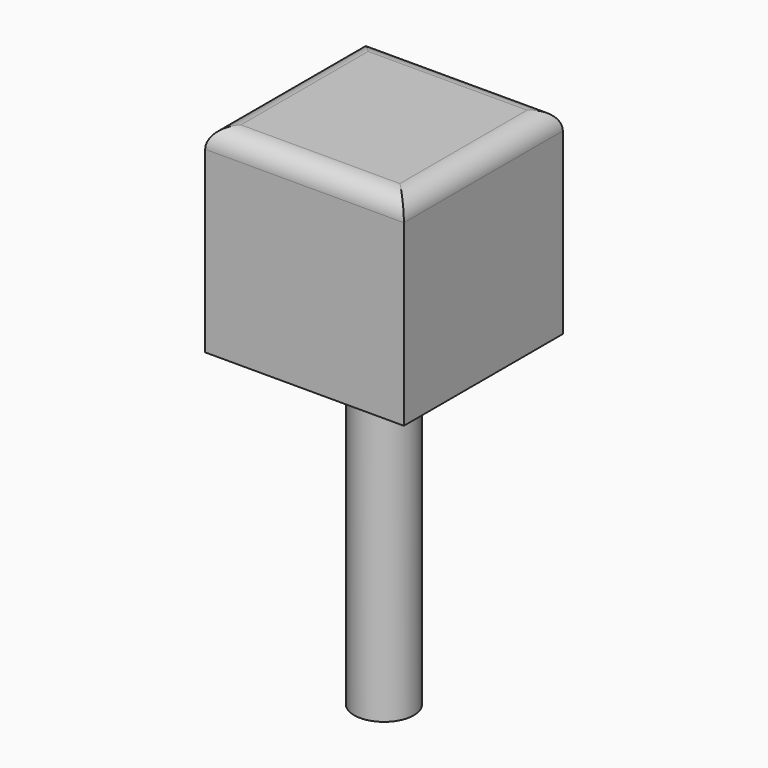
from build123d import *

# Parameters (mm, degrees)
F0_W      = 50
F0_H      = 50
F1_DEPTH  = 50
F2_R      = 5
F3_R      = 7.5
F4_DEPTH  = 20
F4_FACE_R = 7.5
F5_DEPTH  = 100


with BuildPart() as f1:
    # F0 (on Top) → F1 (new body)
    with BuildSketch(Plane.XY):
        Rectangle(F0_W, F0_H)
    extrude(amount=F1_DEPTH)

    # F2
    f2_edges = [f1.edges().sort_by_distance(p)[0] for p in [
        (25, 0, 50),
        (0, 25, 50),
        (-25, 0, 50),
        (0, -25, 50),
    ]]
    fillet(f2_edges, radius=F2_R)

    # F3 (on face) → F4 (cut)
    with BuildSketch(Plane(origin=(0, 0, 0), x_dir=(1, 0, 0), z_dir=(0, 0, -1))):
        Circle(F3_R)
    extrude(amount=-F4_DEPTH, mode=Mode.SUBTRACT)


with BuildPart() as f5:
    # F4_face (on face) → F5 (new body)
    with BuildSketch(Plane(origin=(0, 0, 20), x_dir=(1, 0, 0), z_dir=(0, 0, -1))):
        Circle(F4_FACE_R)
    extrude(amount=F5_DEPTH)


solid = Compound([f1.part, f5.part])
